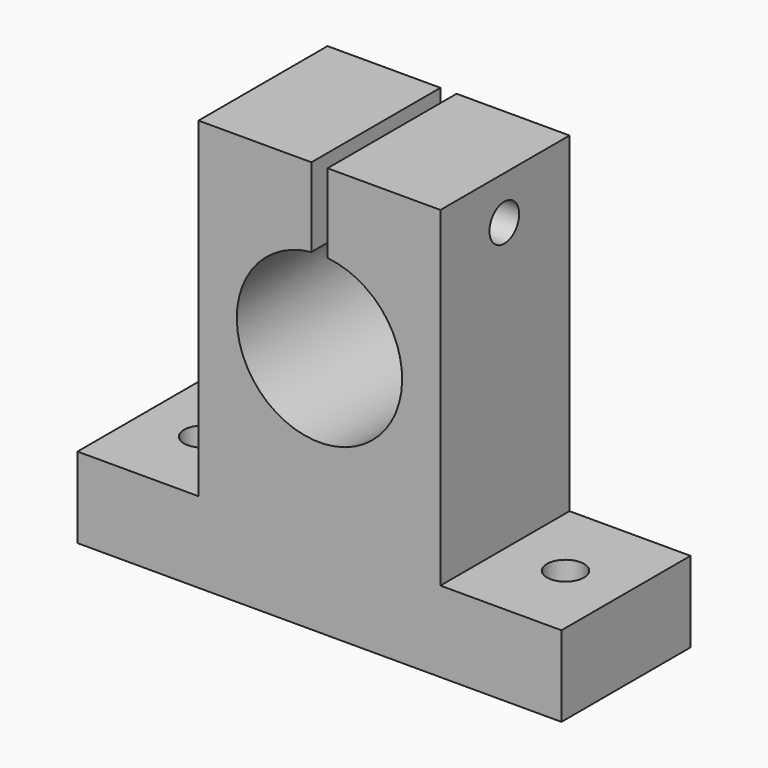
from build123d import *

# Parameters (mm, degrees)
BOX002_W                    = 2
BOX002_H                    = 25
BOX002_DEPTH                = 15
CYLINDER003_R               = 2.3
CYLINDER003_DEPTH           = 33
CYLINDER003_PITCH_ANGLE     = 90
CYLINDER003_PLACEMENT_ANGLE = 7e-06
CYLINDER002_R               = 2.3
CYLINDER002_DEPTH           = 13
CYLINDER001_R               = 2.3
CYLINDER001_DEPTH           = 13
CYLINDER_R                  = 10.25
CYLINDER_DEPTH              = 25
CYLINDER_ROLL_ANGLE         = -90
BOX001_W                    = 30
BOX001_H                    = 20
BOX001_DEPTH                = 41
BOX_W                       = 60
BOX_H                       = 20
BOX_DEPTH                   = 10


with BuildPart() as box002:
    # Box002 → Box002 (new body)
    with BuildSketch(Plane(origin=(29, -2.73, 37.37), x_dir=(1, 0, 0), z_dir=(0, 0, 1))):
        with Locations((1, 12.5)):
            Rectangle(BOX002_W, BOX002_H)
    extrude(amount=BOX002_DEPTH)


with BuildPart() as cylinder003:
    # Cylinder003 → Cylinder003 (new body)
    with BuildSketch(Plane.XY):
        Circle(CYLINDER003_R)
    extrude(amount=CYLINDER003_DEPTH)


with BuildPart() as cylinder003_1:
    # Cylinder003 pitch: moved
    add(cylinder003.part.rotate(Axis((0, 0, 0), (0, 1, 0)), CYLINDER003_PITCH_ANGLE))


with BuildPart() as cylinder003_2:
    # Cylinder003 placement: moved
    add(cylinder003_1.part.moved(Location((13.120832, 9.893917, 45.599278))).rotate(Axis((13.120832, 9.893917, 45.599278), (0, 0, 1)), CYLINDER003_PLACEMENT_ANGLE))


with BuildPart() as cylinder002:
    # Cylinder002 → Cylinder002 (new body)
    with BuildSketch(Plane(origin=(52.5, 10, -2), x_dir=(1, 0, 0), z_dir=(0, 0, 1))):
        Circle(CYLINDER002_R)
    extrude(amount=CYLINDER002_DEPTH)


with BuildPart() as cylinder001:
    # Cylinder001 → Cylinder001 (new body)
    with BuildSketch(Plane(origin=(7.5, 10, -2), x_dir=(1, 0, 0), z_dir=(0, 0, 1))):
        Circle(CYLINDER001_R)
    extrude(amount=CYLINDER001_DEPTH)


with BuildPart() as cylinder:
    # Cylinder → Cylinder (new body)
    with BuildSketch(Plane.XY):
        Circle(CYLINDER_R)
    extrude(amount=CYLINDER_DEPTH)


with BuildPart() as cylinder_1:
    # Cylinder roll: moved
    add(cylinder.part.rotate(Axis((0, 0, 0), (1, 0, 0)), CYLINDER_ROLL_ANGLE))


with BuildPart() as cylinder_2:
    # Cylinder placement: moved
    add(cylinder_1.part.moved(Location((30, -3.23131, 31))))


with BuildPart() as cut:
    # Box001 → Box001 (new body)
    with BuildSketch(Plane(origin=(15, 0, 10), x_dir=(1, 0, 0), z_dir=(0, 0, 1))):
        with Locations((15, 10)):
            Rectangle(BOX001_W, BOX001_H)
    extrude(amount=BOX001_DEPTH)

    # Cut: cut Cylinder
    add(cylinder_2.part, mode=Mode.SUBTRACT)


with BuildPart() as cut004:
    # Box → Box (new body)
    with BuildSketch(Plane.XY):
        with Locations((30, 10)):
            Rectangle(BOX_W, BOX_H)
    extrude(amount=BOX_DEPTH)

    # Fusion: union Cut
    add(cut.part)

    # Cut001: cut Cylinder001
    add(cylinder001.part, mode=Mode.SUBTRACT)

    # Cut002: cut Cylinder002
    add(cylinder002.part, mode=Mode.SUBTRACT)

    # Cut003: cut Cylinder003
    add(cylinder003_2.part, mode=Mode.SUBTRACT)

    # Cut004: cut Box002
    add(box002.part, mode=Mode.SUBTRACT)


solid = cut004.part
